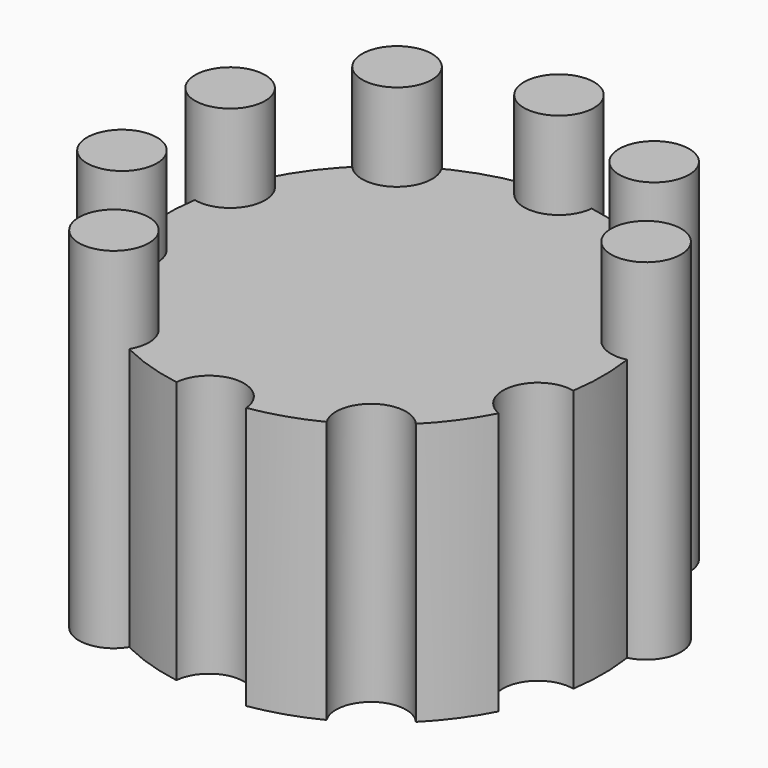
from build123d import *

# Parameters (mm, degrees)
F0_R     = 31.75
F1_DEPTH = 38.1
F2_R     = 5.08
F3_DEPTH = 50.8


with BuildPart() as f1:
    # F0 (on Top) → F1 (new body)
    with BuildSketch(Plane.XY):
        Circle(F0_R)
    extrude(amount=F1_DEPTH)


with BuildPart() as f3:
    # F2 (on Top) → F3 (new body)
    with BuildSketch(Plane.XY):
        with Locations((0, 31.75)):
            Circle(F2_R)
    extrude(amount=F3_DEPTH)


with BuildPart() as f3b:
    # F2 (on Top) → F3, piece 2 (new body)
    with BuildSketch(Plane.XY):
        with Locations((-18.6621817603, 25.6862895714)):
            Circle(F2_R)
    extrude(amount=F3_DEPTH)


with BuildPart() as f3c:
    # F2 (on Top) → F3, piece 3 (new body)
    with BuildSketch(Plane.XY):
        with Locations((-30.1960443924, 9.8112895714)):
            Circle(F2_R)
    extrude(amount=F3_DEPTH)


with BuildPart() as f3d:
    # F2 (on Top) → F3, piece 4 (new body)
    with BuildSketch(Plane.XY):
        with Locations((-30.1960443924, -9.8112895714)):
            Circle(F2_R)
    extrude(amount=F3_DEPTH)


with BuildPart() as f3e:
    # F2 (on Top) → F3, piece 5 (new body)
    with BuildSketch(Plane.XY):
        with Locations((-18.6621817603, -25.6862895714)):
            Circle(F2_R)
    extrude(amount=F3_DEPTH)


with BuildPart() as f3f:
    # F2 (on Top) → F3, piece 6 (new body)
    with BuildSketch(Plane.XY):
        with Locations((0, -31.75)):
            Circle(F2_R)
    extrude(amount=F3_DEPTH)


with BuildPart() as f3g:
    # F2 (on Top) → F3, piece 7 (new body)
    with BuildSketch(Plane.XY):
        with Locations((18.6621817603, -25.6862895714)):
            Circle(F2_R)
    extrude(amount=F3_DEPTH)


with BuildPart() as f3h:
    # F2 (on Top) → F3, piece 8 (new body)
    with BuildSketch(Plane.XY):
        with Locations((30.1960443924, -9.8112895714)):
            Circle(F2_R)
    extrude(amount=F3_DEPTH)


with BuildPart() as f3i:
    # F2 (on Top) → F3, piece 9 (new body)
    with BuildSketch(Plane.XY):
        with Locations((30.1960443924, 9.8112895714)):
            Circle(F2_R)
    extrude(amount=F3_DEPTH)


with BuildPart() as f3j:
    # F2 (on Top) → F3, piece 10 (new body)
    with BuildSketch(Plane.XY):
        with Locations((18.6621817603, 25.6862895714)):
            Circle(F2_R)
    extrude(amount=F3_DEPTH)


with BuildPart() as f1_1:
    add(f1.part)

    # F4: cut F3h, F3g, F3f
    add(f3h.part, mode=Mode.SUBTRACT)
    add(f3g.part, mode=Mode.SUBTRACT)
    add(f3f.part, mode=Mode.SUBTRACT)


solid = Compound([f3.part, f3b.part, f3c.part, f3d.part, f3e.part, f3i.part, f3j.part, f1_1.part])
